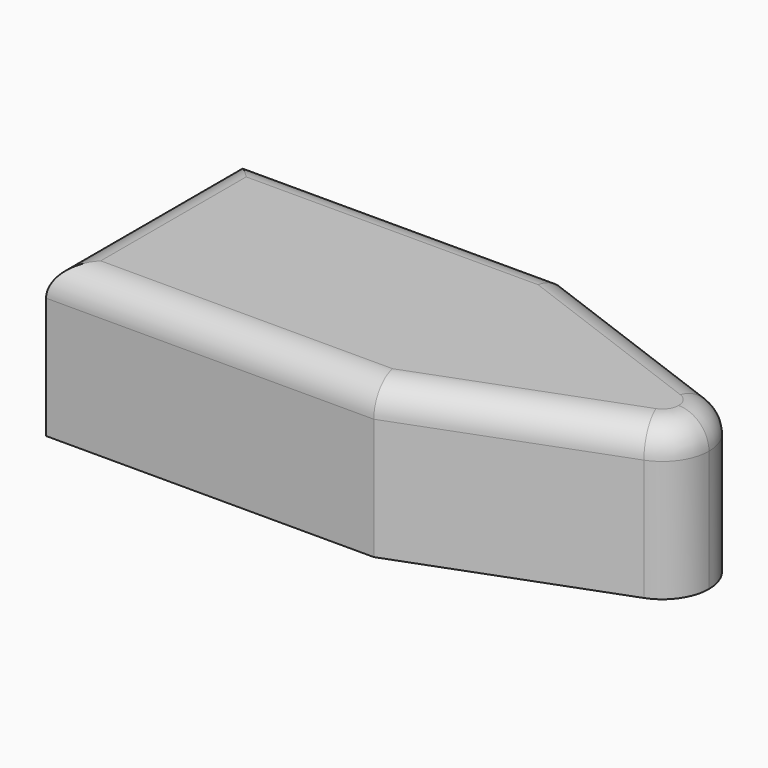
from build123d import *

# Parameters (mm, degrees)
F0_W     = 54
F0_H     = 39.969452
F1_DEPTH = 25
F2_R     = 5


with BuildPart() as f1:
    # F0 (on Top) → F1 (new body)
    with BuildSketch(Plane.XY):
        Rectangle(F0_W, F0_H)
        with BuildLine():
            Line((27, 19.984726), (27, -19.984726))
            Line((27, -19.984726), (61.25911, -7.17676))
            ThreePointArc((61.25911, -7.17676), (50.914134, 0), (61.25911, 7.17676))
            Line((61.25911, 7.17676), (27, 19.984726))
        make_face()
        with BuildLine():
            ThreePointArc((61.25911, 7.17676), (50.914134, 0), (61.25911, -7.17676))
            ThreePointArc((61.25911, -7.17676), (64.871361, -4.36734), (66.237941, 0))
            ThreePointArc((66.237941, 0), (64.871361, 4.36734), (61.25911, 7.17676))
        make_face()
    extrude(amount=F1_DEPTH)

    # F2
    f2_edges = [f1.edges().sort_by_distance(p)[0] for p in [
        (0, -19.984726, 25),
        (-27, 0, 25),
        (0, 19.984726, 25),
        (44.129555, 13.580743, 25),
        (66.237941, 0, 25),
        (44.129555, -13.580743, 25),
    ]]
    fillet(f2_edges, radius=F2_R)


solid = f1.part
